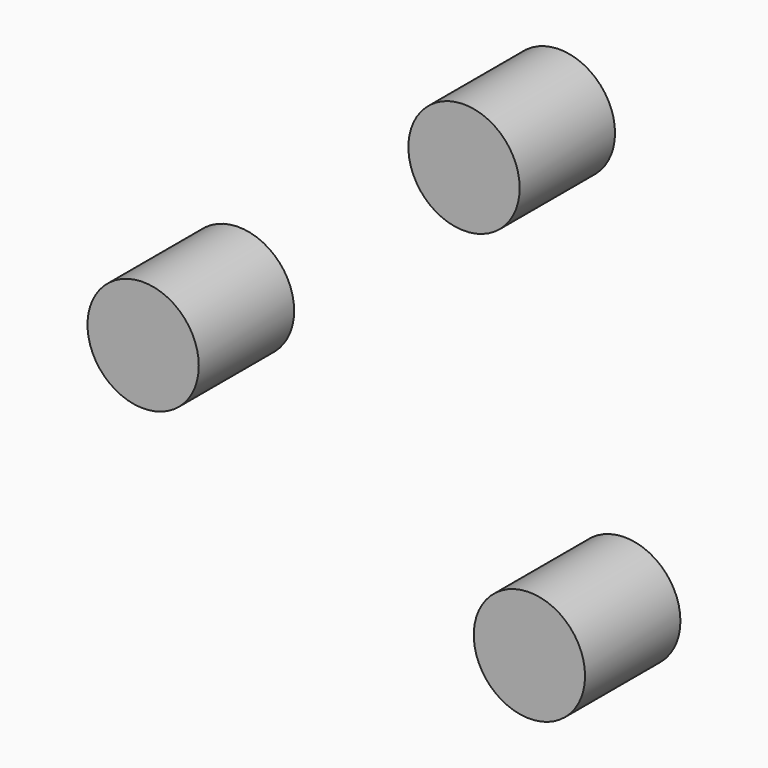
from build123d import *

# Parameters (mm, degrees)
F0_R     = 11.856707
F1_DEPTH = 25.4


with BuildPart() as f1:
    # F0 (on Front) → F1 (new body)
    with BuildSketch(Plane.XZ):
        with Locations((18.146962, 47.517892)):
            Circle(F0_R)
        with Locations((-50.225183, -8.043216)):
            Circle(F0_R)
        with Locations((32.07822, -39.474676)):
            Circle(F0_R)
    extrude(amount=F1_DEPTH)


solid = f1.part
